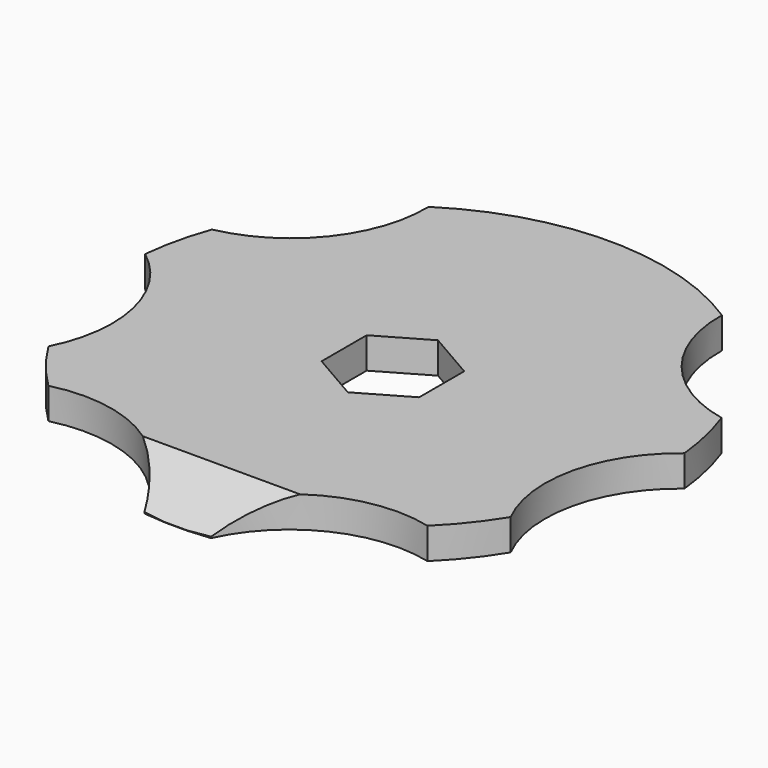
from build123d import *

# Parameters (mm, degrees)
F0_R     = 20
F1_DEPTH = 2.3
F2_R     = 10
F3_DEPTH = 2.301
F5_DEPTH = 6


with BuildPart() as f1:
    # F0 (on Top) → F1 (new body)
    with BuildSketch(Plane.XY):
        Circle(F0_R)
        Polygon((0, 4.1569219382), (3.6, 2.0784609691), (3.6, -2.0784609691), (0, -4.1569219382), (-3.6, -2.0784609691), (-3.6, 2.0784609691), align=None, mode=Mode.SUBTRACT)
    extrude(amount=F1_DEPTH)

    # F2 (on Top) → F3 (cut, through all)
    with BuildSketch(Plane.XY):
        with Locations((-20.8224465161, 16.605346988)):
            Circle(F2_R)
        with Locations((-25.9651661051, -5.926379725)):
            Circle(F2_R)
        with Locations((-11.5555860241, -23.9954216289)):
            Circle(F2_R)
        with Locations((11.5555860241, -23.9954216289)):
            Circle(F2_R)
        with Locations((25.9651661051, -5.926379725)):
            Circle(F2_R)
        with Locations((20.8224465161, 16.605346988)):
            Circle(F2_R)
    extrude(amount=F3_DEPTH, mode=Mode.SUBTRACT)

    # F4 (on Right) → F5 (cut, symmetric)
    with BuildSketch(Plane.YZ):
        Polygon((-20.0328639653, 3), (-20.0328639653, 0), (-14.5328639653, 3), align=None)
    extrude(amount=F5_DEPTH, both=True, mode=Mode.SUBTRACT)


solid = f1.part
